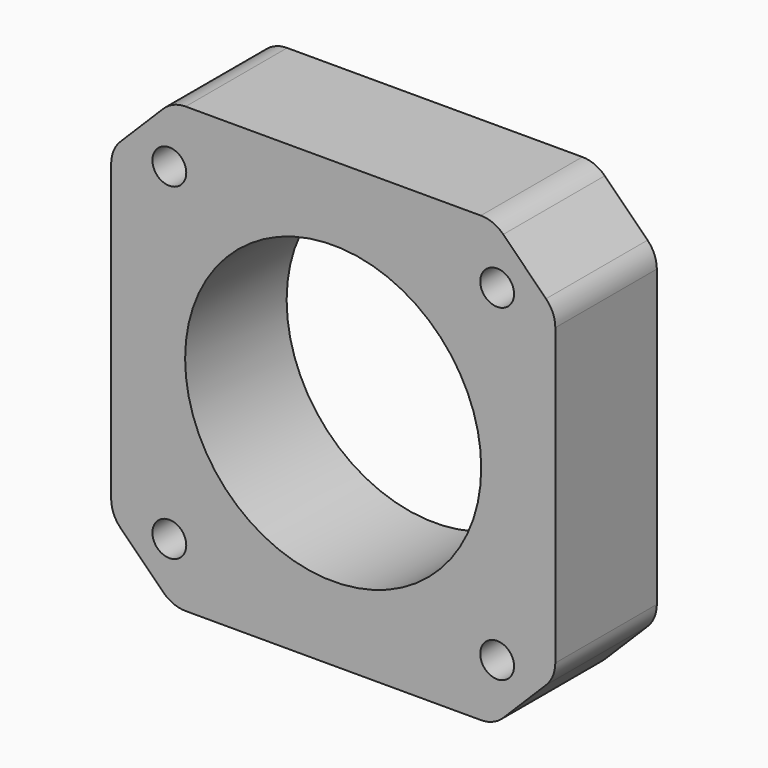
from build123d import *

# Parameters (mm, degrees)
F0_R     = 1.6
F0_R_2   = 14
F1_DEPTH = 12
F2_R     = 3


with BuildPart() as f1:
    # F0 (on Front) → F1 (new body)
    with BuildSketch(Plane.XZ):
        Polygon((-15.2, -21), (15.2, -21), (21, -15.2), (21, 15.2), (15.2, 21), (-15.2, 21), (-21, 15.2), (-21, -15.2), align=None)
        with Locations((-15.5, -15.5)):
            Circle(F0_R, mode=Mode.SUBTRACT)
        with Locations((15.5, -15.5)):
            Circle(F0_R, mode=Mode.SUBTRACT)
        with Locations((-0.007259, 0.001117)):
            Circle(F0_R_2, mode=Mode.SUBTRACT)
        with Locations((-15.5, 15.5)):
            Circle(F0_R, mode=Mode.SUBTRACT)
        with Locations((15.5, 15.5)):
            Circle(F0_R, mode=Mode.SUBTRACT)
    extrude(amount=F1_DEPTH)

    # F2
    f2_edges = [f1.edges().sort_by_distance(p)[0] for p in [
        (-21, -6, -15.2),
        (-15.2, -6, -21),
        (15.2, -6, -21),
        (21, -6, -15.2),
        (21, -6, 15.2),
        (15.2, -6, 21),
        (-21, -6, 15.2),
        (-15.2, -6, 21),
    ]]
    fillet(f2_edges, radius=F2_R)


solid = f1.part
